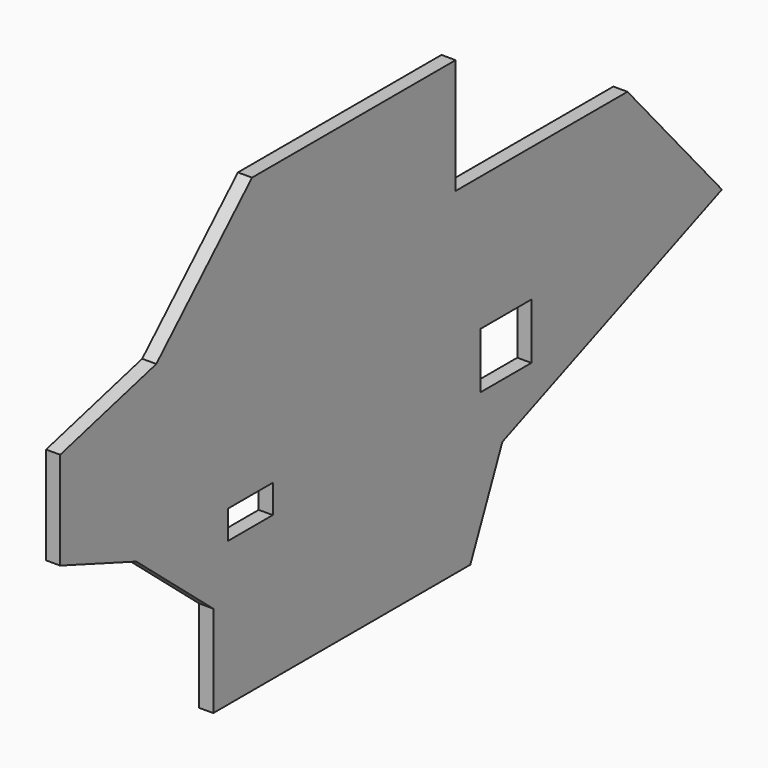
from build123d import *

# Parameters (mm, degrees)
F1_W     = 12.621125
F1_H     = 6.403833
F1_W_2   = 14.245306
F1_H_2   = 12.555593
F0_DEPTH = 3.175


with BuildPart() as f0:
    # F1 (on Right) → F0 (new body)
    with BuildSketch(Plane.YZ):
        Polygon((-27.865971, 56.059395), (-54.780164, 30.102129), (-81.797782, 23.108517), (-81.797782, 1.158869), (-60.415494, -6.72708), (-38.755445, -24.869703), (-38.755445, -45.540605), (0.748058, -45.540605), (0.748058, 56.059395), align=None)
        with Locations((-28.339945, -9.928997)):
            Rectangle(F1_W, F1_H, mode=Mode.SUBTRACT)
        Polygon((29.362087, 56.059395), (0.748058, 56.059395), (0.748058, -45.540605), (12.285572, -45.540605), (33.50626, -45.540605), (42.517703, -24.869703), (104.240472, 0), (77.687405, 30.154637), (29.362087, 30.154637), align=None)
        with Locations((43.55493, -6.277797)):
            Rectangle(F1_W_2, F1_H_2, mode=Mode.SUBTRACT)
    extrude(amount=F0_DEPTH)


solid = f0.part
